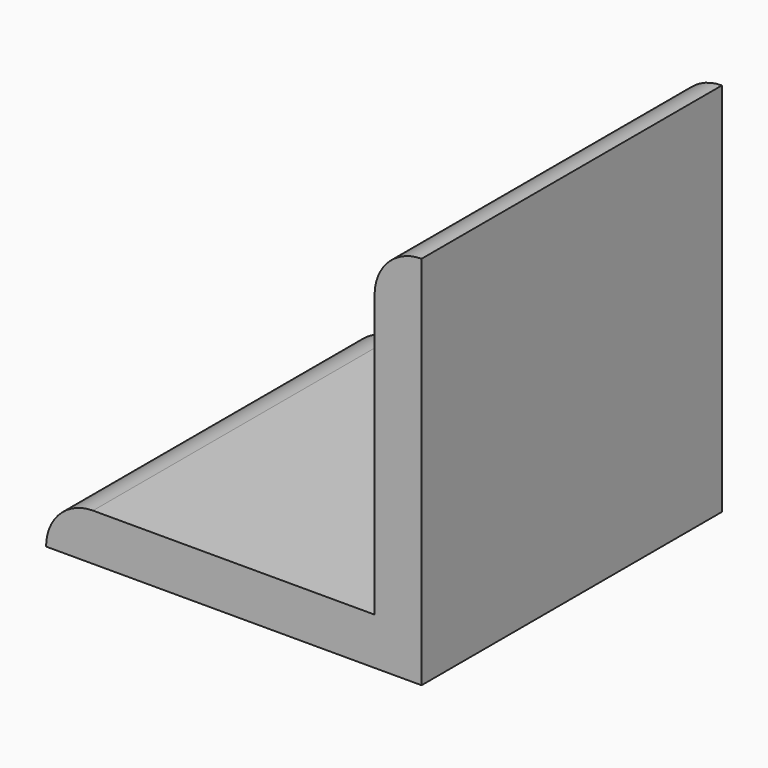
from build123d import *

# Parameters (mm, degrees)
F1_DEPTH = 25.4


with BuildPart() as f1:
    # F0 (on Front) → F1 (new body, symmetric)
    with BuildSketch(Plane.XZ):
        with BuildLine():
            Line((-50.8, 0), (0, 0))
            Line((0, 0), (0, 50.8))
            ThreePointArc((0, 50.8), (-4.490128, 48.940128), (-6.35, 44.45))
            Line((-6.35, 44.45), (-6.35, 6.35))
            Line((-6.35, 6.35), (-44.45, 6.35))
            ThreePointArc((-44.45, 6.35), (-48.940128, 4.490128), (-50.8, 0))
        make_face()
    extrude(amount=F1_DEPTH, both=True)


solid = f1.part
